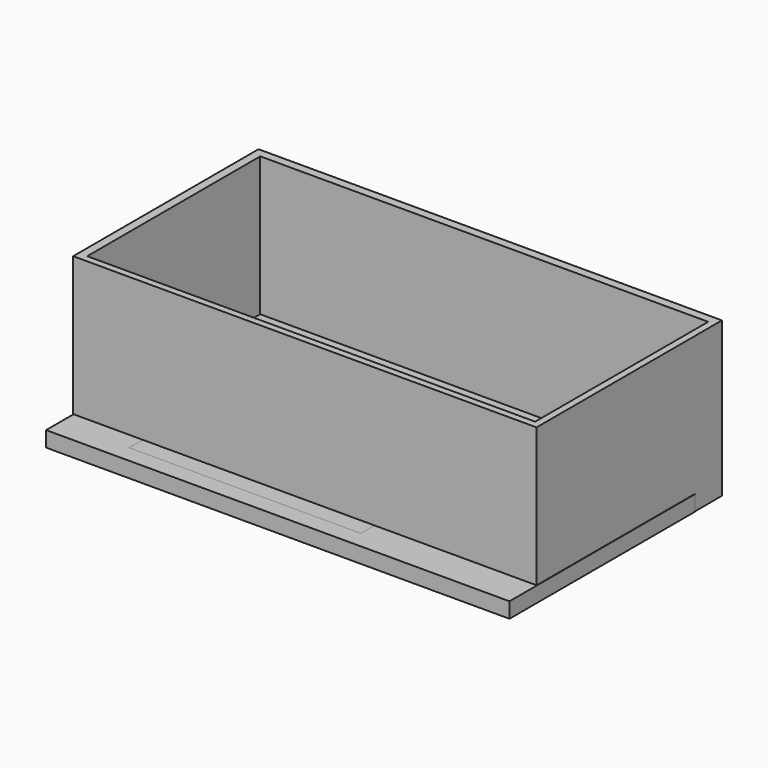
from build123d import *

# Parameters (mm, degrees)
F0_W     = 152.4
F0_H     = 76.2
F0_W_2   = 147.32
F0_H_2   = 71.12
F1_DEPTH = 50.8
F2_DEPTH = 5.08
F3_W     = 152.4
F3_H     = 76.2
F3_W_2   = 147.32
F3_H_2   = 71.12
F4_DEPTH = 5.08
F5_W     = 76.2
F5_H     = 50.8
F6_DEPTH = 5.08


with BuildPart() as f1:
    # F0 (on Top) → F1 (new body)
    with BuildSketch(Plane.XY):
        with Locations((0.28824, 0.091143)):
            Rectangle(F0_W, F0_H)
        with Locations((0.570236, -0.19085)):
            Rectangle(F0_W_2, F0_H_2, mode=Mode.SUBTRACT)
    extrude(amount=F1_DEPTH)

    # F0 (on Top) → F2 (join)
    with BuildSketch(Plane.XY):
        with Locations((0.570236, -0.19085)):
            Rectangle(F0_W_2, F0_H_2)
    extrude(amount=F2_DEPTH)


with BuildPart() as f4:
    # F3 (on Top) → F4 (new body)
    with BuildSketch(Plane.XY):
        with Locations((0.410789, -11.190735)):
            Rectangle(F3_W, F3_H)
        with Locations((0.704995, -11.478835)):
            Rectangle(F3_W_2, F3_H_2, mode=Mode.SUBTRACT)
        with Locations((0.704995, -11.478835)):
            Rectangle(F3_W_2, F3_H_2)
    extrude(amount=F4_DEPTH)


with BuildPart() as f6:
    # F5 (on Top) → F6 (new body)
    with BuildSketch(Plane.XY):
        with Locations((-14.901747, -18.246742)):
            Rectangle(F5_W, F5_H)
    extrude(amount=F6_DEPTH)


solid = Compound([f1.part, f4.part, f6.part])
